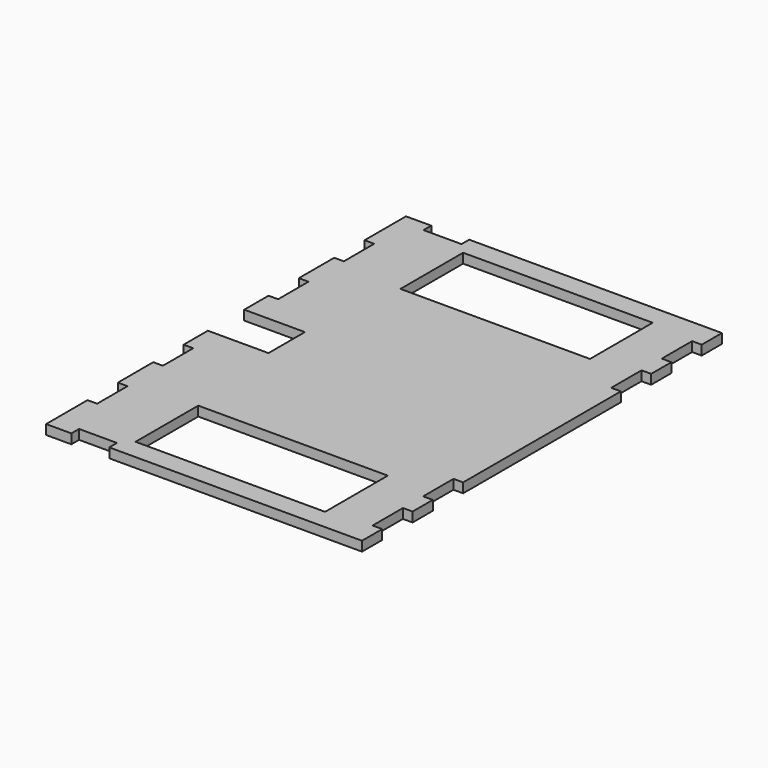
from build123d import *

# Parameters (mm, degrees)
F0_W     = 75
F0_H     = 31
F1_DEPTH = 3.81


with BuildPart() as f1:
    # F0 (on Top) → F1 (new body)
    with BuildSketch(Plane.XY):
        Polygon((62.5, 79), (62.5, 89), (-37.5, 89), (-37.5, 85.19), (-52.5, 85.19), (-52.5, 89), (-62.5, 89), (-62.5, 68.5), (-58.69, 68.5), (-58.69, 53.5), (-62.5, 53.5), (-62.5, 36), (-58.69, 36), (-58.69, 21), (-62.5, 21), (-62.5, 9), (-38.5, 9), (-38.5, 0), (-38.5, -9), (-62.5, -9), (-62.5, -21), (-58.69, -21), (-58.69, -36), (-62.5, -36), (-62.5, -53.5), (-58.69, -53.5), (-58.69, -68.5), (-62.5, -68.5), (-62.5, -89), (-52.5, -89), (-52.5, -85.19), (-37.5, -85.19), (-37.5, -89), (62.5, -89), (62.5, -79), (58.69, -79), (58.69, -64), (62.5, -64), (62.5, -54), (58.69, -54), (58.69, -39), (62.5, -39), (62.5, 39), (58.69, 39), (58.69, 54), (62.5, 54), (62.5, 64), (58.69, 64), (58.69, 79), align=None)
        with Locations((4, -65.5)):
            Rectangle(F0_W, F0_H, mode=Mode.SUBTRACT)
        with Locations((4, 65.5)):
            Rectangle(F0_W, F0_H, mode=Mode.SUBTRACT)
    extrude(amount=F1_DEPTH)


solid = f1.part
